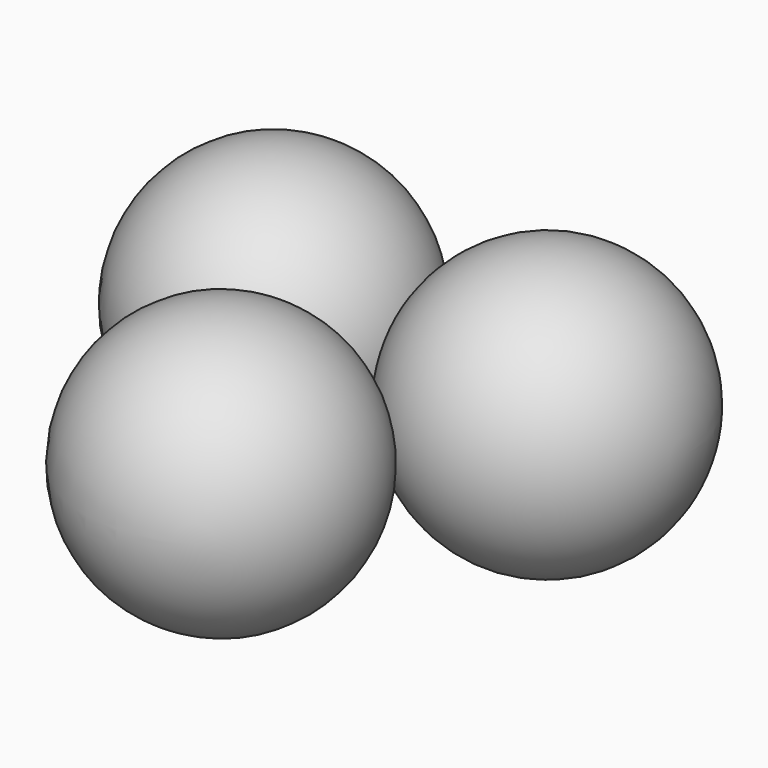
from build123d import *


with BuildPart() as f1:
    # F0 (on Top) → F1 (revolve)
    with BuildSketch(Plane.XY):
        with BuildLine():
            Line((0, -70.0794532895), (-30.345293416, -17.5198633224))
            ThreePointArc((-30.345293416, -17.5198633224), (-52.5595899671, -100.4247467055), (30.345293416, -122.6390432566))
            Line((30.345293416, -122.6390432566), (0, -70.0794532895))
        make_face()
    revolve(axis=Axis((8.0600047412, -84.0397910105, 0), (0.5, -0.8660254038, 0)))


with BuildPart() as f2:
    # F0 (on Top) → F2 (revolve)
    with BuildSketch(Plane.XY):
        with BuildLine():
            ThreePointArc((121.3811736641, 35.0397266448), (60.690586832, 95.7303134768), (0, 35.0397266448))
            Line((0, 35.0397266448), (60.690586832, 35.0397266448))
            Line((60.690586832, 35.0397266448), (121.3811736641, 35.0397266448))
        make_face()
    revolve(axis=Axis((75.187548995, 35.0397266448, 0), (1, 0, 0)))


with BuildPart() as f3:
    # F0 (on Top) → F3 (revolve)
    with BuildSketch(Plane.XY):
        with BuildLine():
            Line((-30.345293416, -17.5198633224), (-60.690586832, 35.0397266448))
            Line((-60.690586832, 35.0397266448), (-91.0358802481, 87.5993166119))
            ThreePointArc((-91.0358802481, 87.5993166119), (-113.2501767992, 4.6944332287), (-30.345293416, -17.5198633224))
        make_face()
    revolve(axis=Axis((-67.3661987548, 46.6022256667, 0), (-0.5, 0.8660254038, 0)))


solid = Compound([f1.part, f2.part, f3.part])
